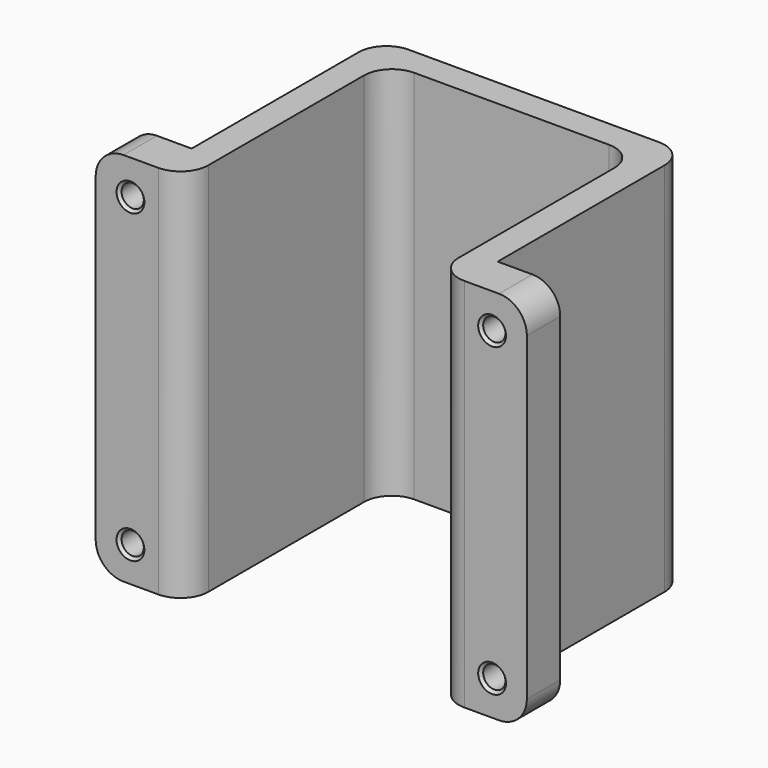
from build123d import *

# Parameters (mm, degrees)
PAD_DEPTH       = 54
SKETCH001_R     = 1.6
POCKET_DEPTH    = 6
SKETCH002_R     = 6.1
POCKET001_DEPTH = 5
FILLET_R        = 4
FILLET001_R     = 4
FILLET002_R     = 4
FILLET003_R     = 4
CHAMFER_SIZE    = 0.4
CHAMFER001_SIZE = 0.4
CHAMFER002_SIZE = 0.4
CHAMFER003_SIZE = 0.4


with BuildPart() as part:
    # Sketch → Pad (new body)
    with BuildSketch(Plane.XY):
        Polygon((0, 0), (0, 6), (9, 6), (9, 40), (53, 40), (53, 6), (62, 6), (62, 0), (49, 0), (49, 36), (13, 36), (13, 0), align=None)
    extrude(amount=PAD_DEPTH)

    # Sketch001 (on Face8 of Pad) → Pocket (cut)
    with BuildSketch(Plane.XZ):
        with Locations((5, 5)):
            Circle(SKETCH001_R)
        with Locations((57, 5)):
            Circle(SKETCH001_R)
        with Locations((57, 49)):
            Circle(SKETCH001_R)
        with Locations((5, 49)):
            Circle(SKETCH001_R)
    extrude(amount=-POCKET_DEPTH, mode=Mode.SUBTRACT)

    # Sketch002 (on Face10 of Pocket) → Pocket001 (cut)
    with BuildSketch(Plane(origin=(0, 40, 0), x_dir=(-1, 0, 0), z_dir=(0, 1, 0))):
        with Locations((-31, 26)):
            Circle(SKETCH002_R)
    extrude(amount=-POCKET001_DEPTH, mode=Mode.SUBTRACT)

    # Fillet
    fillet_edges = [part.edges().sort_by_distance(p)[0] for p in [
        (62, 3, 0),
        (62, 3, 54),
        (0, 3, 54),
        (0, 3, 0),
    ]]
    fillet(fillet_edges, radius=FILLET_R)

    # Fillet001
    fillet001_edges = [part.edges().sort_by_distance(p)[0] for p in [
        (53, 40, 27),
        (9, 40, 27),
    ]]
    fillet(fillet001_edges, radius=FILLET001_R)

    # Fillet002
    fillet002_edges = [part.edges().sort_by_distance(p)[0] for p in [
        (49, 0, 27),
        (13, 0, 27),
    ]]
    fillet(fillet002_edges, radius=FILLET002_R)

    # Fillet003
    fillet003_edges = [part.edges().sort_by_distance(p)[0] for p in [
        (49, 36, 27),
        (13, 36, 27),
    ]]
    fillet(fillet003_edges, radius=FILLET003_R)

    # Chamfer
    chamfer_edges = [part.edges().sort_by_distance(p)[0] for p in [
        (37.1, 40, 26),
    ]]
    chamfer(chamfer_edges, length=CHAMFER_SIZE)

    # Chamfer001
    chamfer001_edges = [part.edges().sort_by_distance(p)[0] for p in [
        (55.4, 6, 5),
        (55.4, 6, 49),
        (3.4, 6, 5),
        (3.4, 6, 49),
    ]]
    chamfer(chamfer001_edges, length=CHAMFER001_SIZE)

    # Chamfer002
    chamfer002_edges = [part.edges().sort_by_distance(p)[0] for p in [
        (37.1, 36, 26),
    ]]
    chamfer(chamfer002_edges, length=CHAMFER002_SIZE)

    # Chamfer003
    chamfer003_edges = [part.edges().sort_by_distance(p)[0] for p in [
        (3.4, 0, 49),
        (3.4, 0, 5),
        (55.4, 0, 49),
        (55.4, 0, 5),
    ]]
    chamfer(chamfer003_edges, length=CHAMFER003_SIZE)


solid = part.part
